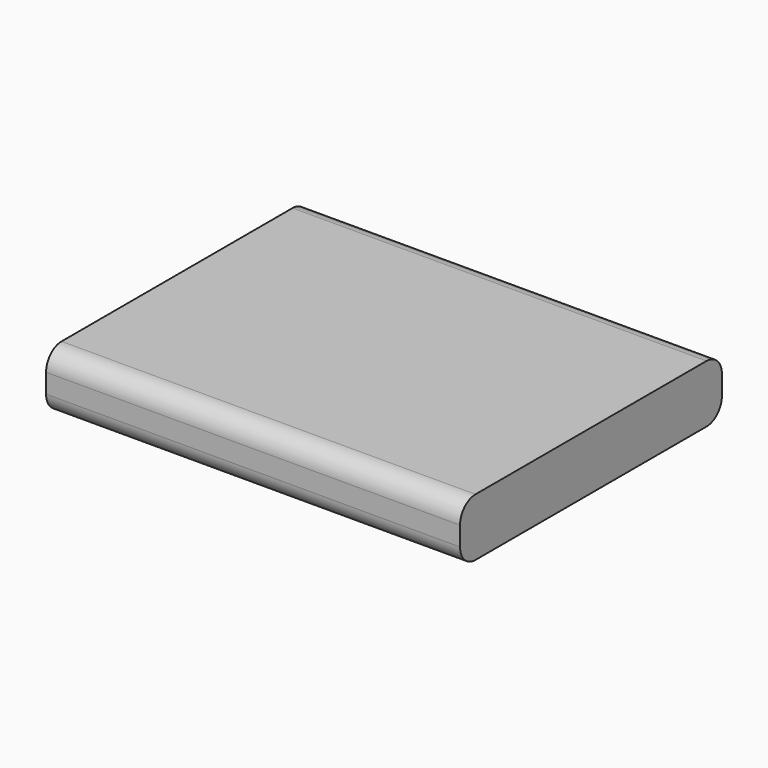
from build123d import *

# Parameters (mm, degrees)
BOX_W       = 43
BOX_H       = 34
BOX_DEPTH   = 6
FILLET002_R = 2
FILLET003_R = 2


with BuildPart() as part:
    # Box → Box (new body)
    with BuildSketch(Plane.XY):
        with Locations((21.5, 17)):
            Rectangle(BOX_W, BOX_H)
    extrude(amount=BOX_DEPTH)

    # Fillet002
    fillet002_edges = [part.edges().sort_by_distance(p)[0] for p in [
        (21.5, 0, 6),
        (21.5, 0, 0),
    ]]
    fillet(fillet002_edges, radius=FILLET002_R)

    # Fillet003
    fillet003_edges = [part.edges().sort_by_distance(p)[0] for p in [
        (21.5, 34, 0),
        (21.5, 34, 6),
    ]]
    fillet(fillet003_edges, radius=FILLET003_R)


with BuildPart() as part_1:
    # Body011 placement: moved
    add(part.part.moved(Location((4, 2.5, 8))))


solid = part_1.part
